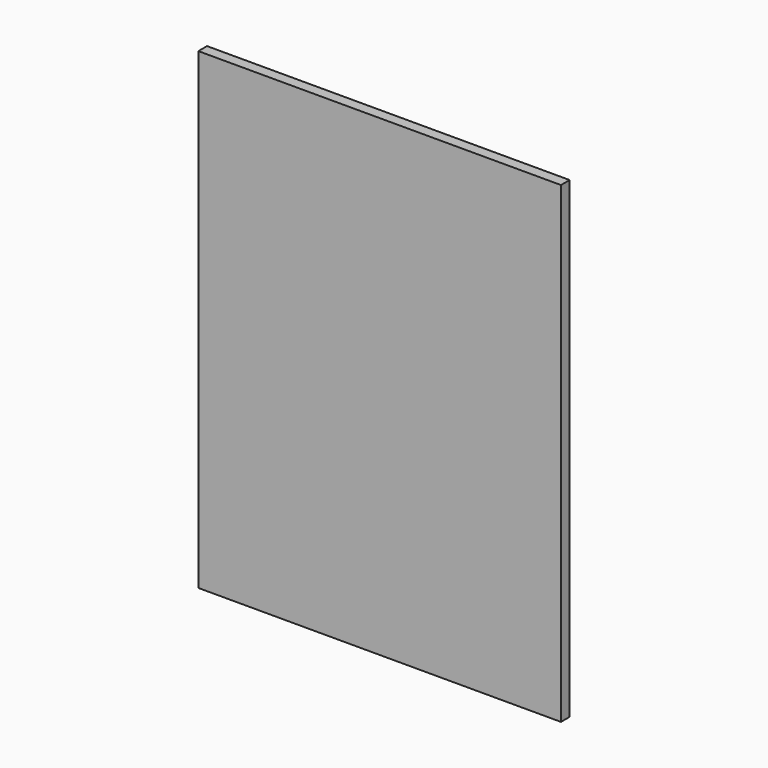
from build123d import *

# Parameters (mm, degrees)
SKETCH_W  = 600
SKETCH_H  = 782
PAD_DEPTH = 18


with BuildPart() as part:
    # Sketch → Pad (new body)
    with BuildSketch(Plane.XZ):
        with Locations((-300, 391)):
            Rectangle(SKETCH_W, SKETCH_H)
    extrude(amount=PAD_DEPTH)


solid = part.part
